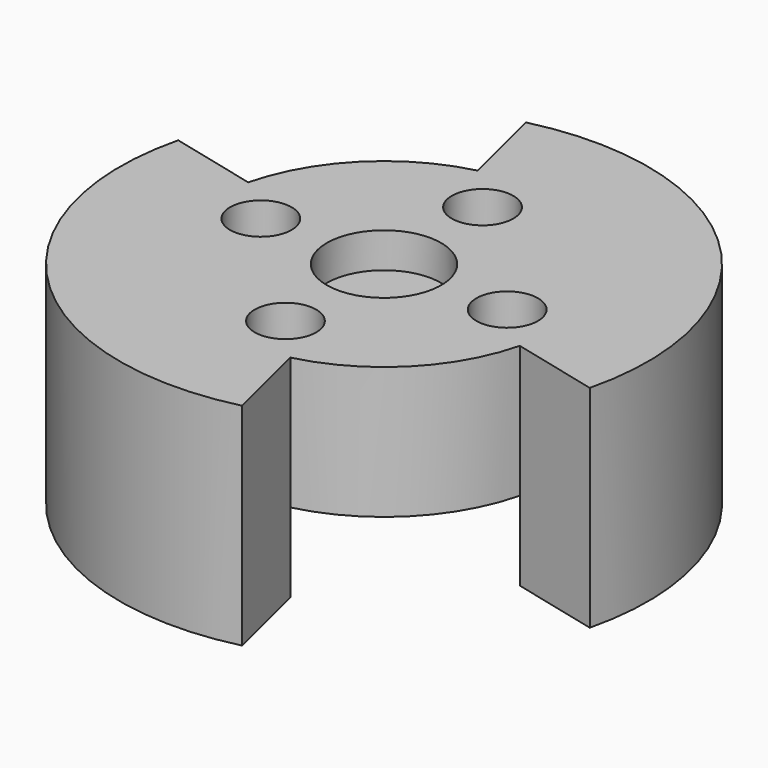
from build123d import *

# Parameters (mm, degrees)
SKETCH012_R     = 9.9
SKETCH012_R_2   = 1.75
PAD009_DEPTH    = 5
SKETCH013_R     = 9.9
SKETCH013_R_2   = 2.75
PAD010_DEPTH    = 2.5
SKETCH014_R     = 3.25
POCKET002_DEPTH = 2
PAD011_DEPTH    = 12


with BuildPart() as part:
    # Sketch012 (on DatumPlane) → Pad009 (new body)
    with BuildSketch(Plane(origin=(0, 0, -19.5), x_dir=(-1, 0, 0), z_dir=(0, 0, -1))):
        Circle(SKETCH012_R)
        with Locations((0, 7)):
            Circle(SKETCH012_R_2, mode=Mode.SUBTRACT)
        with Locations((7, 0)):
            Circle(SKETCH012_R_2, mode=Mode.SUBTRACT)
        with Locations((0, -7)):
            Circle(SKETCH012_R_2, mode=Mode.SUBTRACT)
        with Locations((-7, 0)):
            Circle(SKETCH012_R_2, mode=Mode.SUBTRACT)
    extrude(amount=PAD009_DEPTH)

    # Sketch013 (on Face7 of Pad009) → Pad010 (join)
    with BuildSketch(Plane(origin=(0, 0, -24.5), x_dir=(-1, 0, 0), z_dir=(0, 0, -1))):
        Circle(SKETCH013_R)
        with Locations((0, 7)):
            Circle(SKETCH013_R_2, mode=Mode.SUBTRACT)
        with Locations((7, 0)):
            Circle(SKETCH013_R_2, mode=Mode.SUBTRACT)
        with Locations((0, -7)):
            Circle(SKETCH013_R_2, mode=Mode.SUBTRACT)
        with Locations((-7, 0)):
            Circle(SKETCH013_R_2, mode=Mode.SUBTRACT)
    extrude(amount=PAD010_DEPTH)

    # Sketch014 (on DatumPlane) → Pocket002 (cut)
    with BuildSketch(Plane(origin=(0, 0, -19.5), x_dir=(-1, 0, 0), z_dir=(0, 0, -1))):
        Circle(SKETCH014_R)
    extrude(amount=POCKET002_DEPTH, mode=Mode.SUBTRACT)

    # Sketch015 (on DatumPlane) → Pad011 (join)
    with BuildSketch(Plane(origin=(0, 0, -19.5), x_dir=(-1, 0, 0), z_dir=(0, 0, -1))):
        with BuildLine():
            ThreePointArc((2.3686, 9.612478), (-7.000357, 7.000357), (-9.612478, -2.3686))
            Line((-9.612478, -2.3686), (-14.56436, -3.588789))
            ThreePointArc((3.588789, 14.56436), (-10.606602, 10.606602), (-14.56436, -3.588789))
            Line((2.3686, 9.612478), (3.588789, 14.56436))
        make_face()
        with BuildLine():
            Line((9.612478, 2.3686), (14.56436, 3.588789))
            ThreePointArc((-3.588789, -14.56436), (10.606602, -10.606602), (14.56436, 3.588789))
            Line((-2.3686, -9.612478), (-3.588789, -14.56436))
            ThreePointArc((-2.3686, -9.612478), (7.000357, -7.000357), (9.612478, 2.3686))
        make_face()
    extrude(amount=PAD011_DEPTH)


solid = part.part
